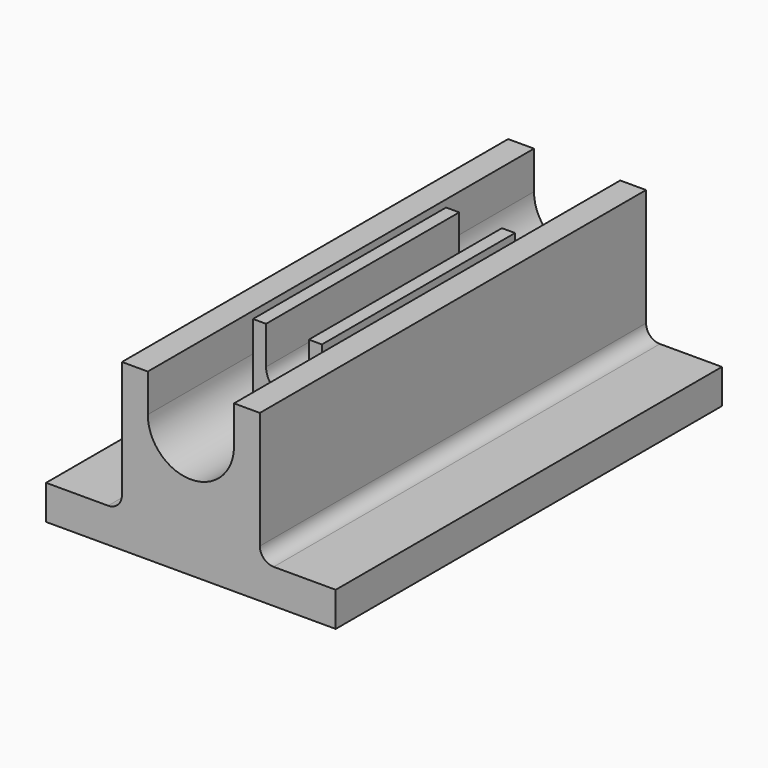
from build123d import *

# Parameters (mm, degrees)
SKETCH_W        = 42
SKETCH_H        = 70
PAD_DEPTH       = 5
SKETCH001_W     = 20
SKETCH001_H     = 70
PAD001_DEPTH    = 19
POCKET_DEPTH    = 70.001
FILLET_R        = 2
SKETCH003_W     = 21
SKETCH003_H     = 35
PAD002_DEPTH    = 5
SKETCH004_W     = 10
SKETCH004_H     = 35
PAD003_DEPTH    = 19
POCKET001_DEPTH = 35.001
FILLET001_R     = 2


with BuildPart() as body:
    # Sketch (on XY_Plane of Origin) → Pad (new body)
    with BuildSketch(Plane.XY):
        Rectangle(SKETCH_W, SKETCH_H)
    extrude(amount=PAD_DEPTH)

    # Sketch001 (on Face6 of Pad) → Pad001 (join)
    with BuildSketch(Plane.XY.offset(5)):
        Rectangle(SKETCH001_W, SKETCH001_H)
    extrude(amount=PAD001_DEPTH)

    # Sketch002 (on Face9 of Pad001) → Pocket (cut, through all)
    with BuildSketch(Plane.XZ.offset(35)):
        with BuildLine():
            ThreePointArc((-6.25, 18.5), (0, 12.25), (6.25, 18.5))
            Line((6.25, 18.5), (6.25, 24))
            Line((6.25, 24), (-6.25, 24))
            Line((-6.25, 24), (-6.25, 18.5))
        make_face()
    extrude(amount=-POCKET_DEPTH, mode=Mode.SUBTRACT)

    # Fillet
    fillet_edges = [body.edges().sort_by_distance(p)[0] for p in [
        (10, 0, 5),
        (-10, 0, 5),
    ]]
    fillet(fillet_edges, radius=FILLET_R)


with BuildPart() as body001:
    # Sketch003 (on XY_Plane of Origin002) → Pad002 (new body)
    with BuildSketch(Plane.XY):
        Rectangle(SKETCH003_W, SKETCH003_H)
    extrude(amount=PAD002_DEPTH)

    # Sketch004 (on Face6 of Pad002) → Pad003 (join)
    with BuildSketch(Plane.XY.offset(5)):
        Rectangle(SKETCH004_W, SKETCH004_H)
    extrude(amount=PAD003_DEPTH)

    # Sketch005 (on Face9 of Pad003) → Pocket001 (cut, through all)
    with BuildSketch(Plane.XZ.offset(17.5)):
        with BuildLine():
            ThreePointArc((-3.1, 18.5), (0, 15.4), (3.1, 18.5))
            Line((3.1, 18.5), (3.1, 24))
            Line((3.1, 24), (-3.1, 24))
            Line((-3.1, 24), (-3.1, 18.5))
        make_face()
    extrude(amount=-POCKET001_DEPTH, mode=Mode.SUBTRACT)

    # Fillet001
    fillet001_edges = [body001.edges().sort_by_distance(p)[0] for p in [
        (5, 0, 5),
        (-5, 0, 5),
    ]]
    fillet(fillet001_edges, radius=FILLET001_R)


solid = Compound([body.part, body001.part])
